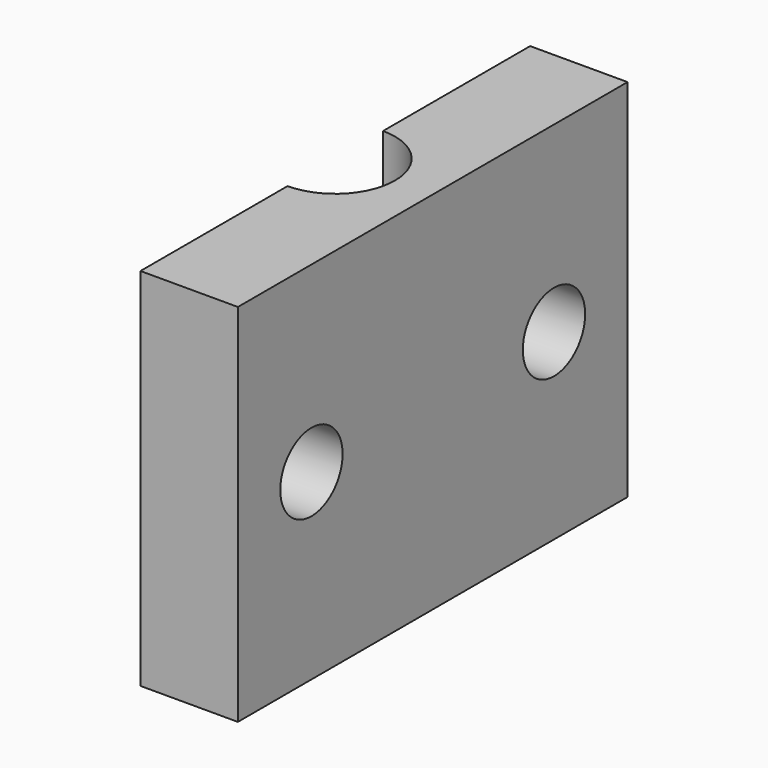
from build123d import *

# Parameters (mm, degrees)
F1_DEPTH = 15
F3_DEPTH = 25
F4_R     = 1.6
F5_DEPTH = 25


with BuildPart() as f1:
    # F0 (on Top) → F1 (new body)
    with BuildSketch(Plane.XY):
        with BuildLine():
            ThreePointArc((0, 4), (2.8284271247, 2.8284271247), (4, 0))
            Line((4, 0), (4, 10))
            Line((4, 10), (0, 10))
            Line((0, 10), (0, 4))
        make_face()
        with BuildLine():
            Line((4, -10), (4, 0))
            ThreePointArc((4, 0), (2.8284271247, -2.8284271247), (0, -4))
            Line((0, -4), (0, -10))
            Line((0, -10), (4, -10))
        make_face()
        with BuildLine():
            ThreePointArc((0, 2.45), (1.7324116139, 1.7324116139), (2.45, 0))
            Line((2.45, 0), (4, 0))
            ThreePointArc((4, 0), (2.8284271247, 2.8284271247), (0, 4))
            Line((0, 4), (0, 2.45))
        make_face()
        with BuildLine():
            Line((4, 0), (2.45, 0))
            ThreePointArc((2.45, 0), (1.7324116139, -1.7324116139), (0, -2.45))
            Line((0, -2.45), (0, -4))
            ThreePointArc((0, -4), (2.8284271247, -2.8284271247), (4, 0))
        make_face()
    extrude(amount=F1_DEPTH)

    # F2 (on face) → F3 (cut)
    with BuildSketch(Plane(origin=(0, 0, 0), x_dir=(0, -1, 0), z_dir=(-1, 0, 0))):
        with BuildLine():
            ThreePointArc((4.625, 7.5), (6.225, 5.9), (7.825, 7.5))
            Line((7.825, 7.5), (4.625, 7.5))
        make_face()
        with BuildLine():
            Line((4.625, 7.5), (7.825, 7.5))
            ThreePointArc((7.825, 7.5), (6.225, 9.1), (4.625, 7.5))
        make_face()
    extrude(amount=-F3_DEPTH, mode=Mode.SUBTRACT)

    # F4 (on face) → F5 (cut)
    with BuildSketch(Plane(origin=(0, 0, 0), x_dir=(0, -1, 0), z_dir=(-1, 0, 0))):
        with Locations((-6.225, 7.5)):
            Circle(F4_R)
    extrude(amount=-F5_DEPTH, mode=Mode.SUBTRACT)


solid = f1.part
